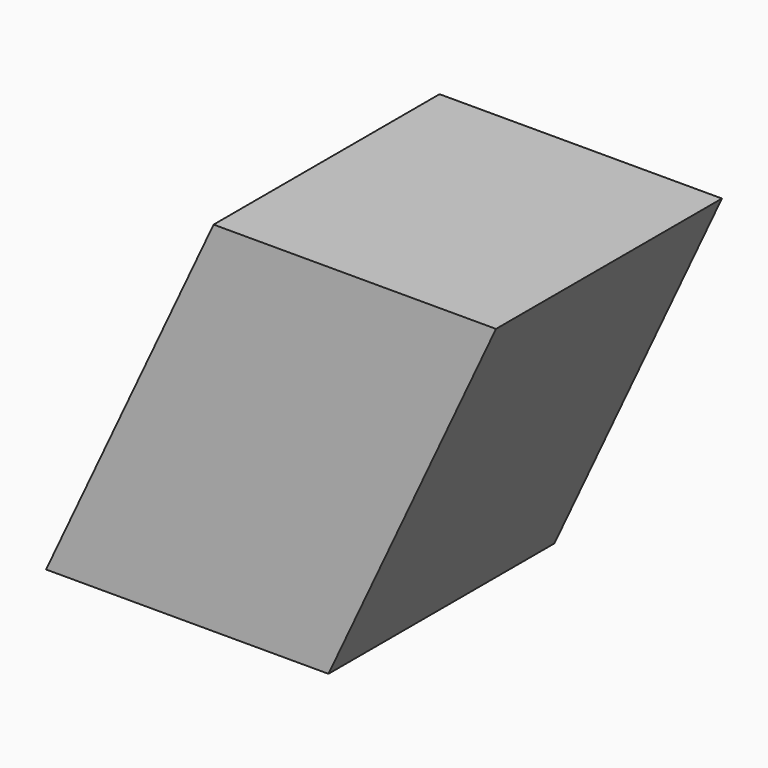
from build123d import *

# Parameters (mm, degrees)
F1_DEPTH = 25
F2_SCALE = 0.5


with BuildPart() as f1:
    # F0 (on Front) → F1 (new body)
    with BuildSketch(Plane.XZ):
        Polygon((-22.4759557433, -6.3542349409), (-37.3049352365, -38.057568633), (-12.3049352365, -38.057568633), (2.5240442567, -6.3542349409), align=None)
    extrude(amount=F1_DEPTH)


with BuildPart() as f1_1:
    # F2: moved
    add(f1.part.scale(F2_SCALE))


solid = f1_1.part
